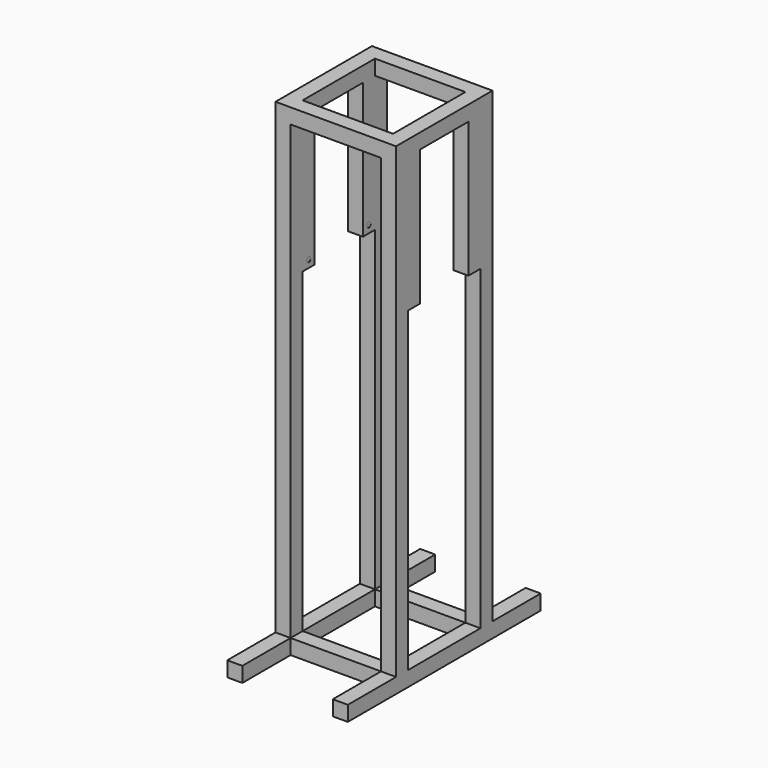
from build123d import *

# Parameters (mm, degrees)
F0_W      = 304.8
F0_H      = 304.8
F1_DEPTH  = 38.1
F2_W      = 228.6
F2_H      = 228.6
F3_DEPTH  = 38.1
F4_W      = 38.1
F4_H      = 38.1
F5_DEPTH  = 1143
F6_W      = 304.8
F6_H      = 304.8
F7_DEPTH  = 38.1
F8_W      = 228.6
F8_H      = 228.6
F9_DEPTH  = 38.1
F10_W     = 38.1
F10_H     = 38.1
F11_DEPTH = 342.9
F12_W     = 38.1
F12_H     = 38.1
F13_DEPTH = 342.9
F14_R     = 6.35
F16_DEPTH = 0.254
F15_R     = 6.35
F17_DEPTH = 0.254
F18_W     = 38.1
F18_H     = 38.1
F19_DEPTH = 304.8


with BuildPart() as f1:
    # F0 (on Top) → F1 (new body)
    with BuildSketch(Plane.XY):
        Rectangle(F0_W, F0_H)
    extrude(amount=-F1_DEPTH)

    # F2 (on face) → F3 (cut)
    with BuildSketch(Plane.XY):
        Rectangle(F2_W, F2_H)
    extrude(amount=-F3_DEPTH, mode=Mode.SUBTRACT)

    # F4 (on face) → F5 (join)
    with BuildSketch(Plane.XY):
        with Locations((-133.35, 133.35)):
            Rectangle(F4_W, F4_H)
        with Locations((133.35, 133.35)):
            Rectangle(F4_W, F4_H)
        with Locations((133.35, -133.35)):
            Rectangle(F4_W, F4_H)
        with Locations((-133.35, -133.35)):
            Rectangle(F4_W, F4_H)
    extrude(amount=F5_DEPTH)

    # F6 (on face) → F7 (join)
    with BuildSketch(Plane.XY.offset(1143)):
        Rectangle(F6_W, F6_H)
    extrude(amount=F7_DEPTH)

    # F8 (on face) → F9 (cut)
    with BuildSketch(Plane.XY.offset(1181.1)):
        Rectangle(F8_W, F8_H)
    extrude(amount=-F9_DEPTH, mode=Mode.SUBTRACT)

    # F10 (on face) → F11 (join)
    with BuildSketch(Plane(origin=(0, 0, 1143), x_dir=(1, 0, 0), z_dir=(0, 0, -1))):
        with Locations((133.35, 95.25)):
            Rectangle(F10_W, F10_H)
        with Locations((133.35, -95.25)):
            Rectangle(F10_W, F10_H)
    extrude(amount=F11_DEPTH)

    # F12 (on face) → F13 (join)
    with BuildSketch(Plane(origin=(0, 0, 1143), x_dir=(1, 0, 0), z_dir=(0, 0, -1))):
        with Locations((-133.35, -95.25)):
            Rectangle(F12_W, F12_H)
        with Locations((-133.35, 95.25)):
            Rectangle(F12_W, F12_H)
    extrude(amount=F13_DEPTH)

    # F14 (on face) → F16 (cut)
    with BuildSketch(Plane.YZ.offset(-114.3)):
        with Locations((95.25, 819.15)):
            Circle(F14_R)
        with Locations((-95.25, 819.15)):
            Circle(F14_R)
    extrude(amount=-F16_DEPTH, mode=Mode.SUBTRACT)

    # F15 (on face) → F17 (cut)
    with BuildSketch(Plane(origin=(114.3, 0, 0), x_dir=(0, -1, 0), z_dir=(-1, 0, 0))):
        with Locations((-95.25, 819.15)):
            Circle(F15_R)
        with Locations((95.25, 819.15)):
            Circle(F15_R)
    extrude(amount=-F17_DEPTH, mode=Mode.SUBTRACT)

    # F18 (on Front) → F19 (join, symmetric)
    with BuildSketch(Plane.XZ):
        with Locations((133.35, -19.05)):
            Rectangle(F18_W, F18_H)
        with Locations((-133.35, -19.05)):
            Rectangle(F18_W, F18_H)
    extrude(amount=F19_DEPTH, both=True)


solid = f1.part
